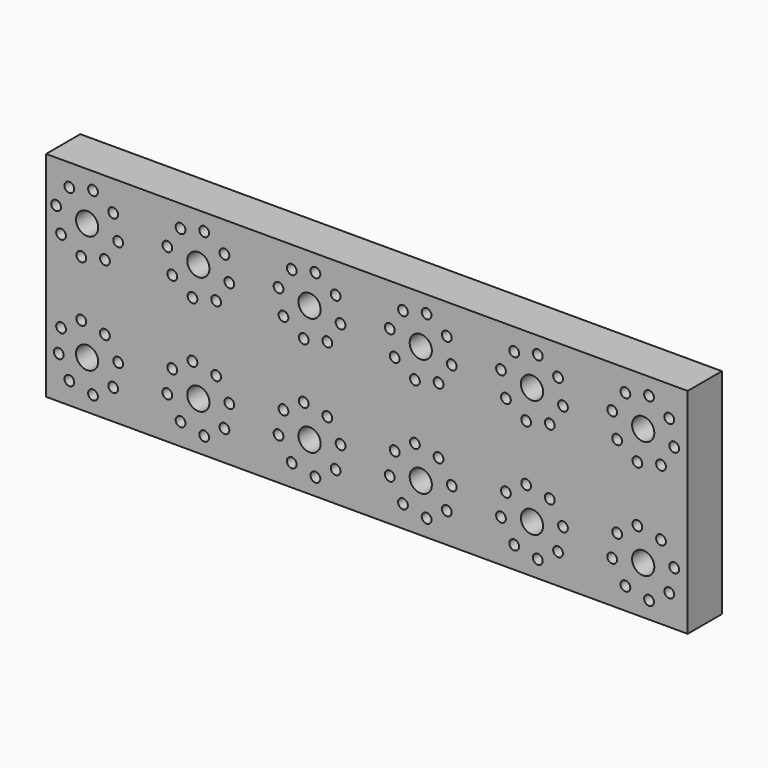
from build123d import *

# Parameters (mm, degrees)
F0_W     = 190.5
F0_H     = 63.5
F0_R     = 1.449377
F0_R_2   = 3.297141
F1_DEPTH = 12.7


with BuildPart() as f1:
    # F0 (on Front) → F1 (new body)
    with BuildSketch(Plane.XZ):
        with Locations((9.943035, 15.414621)):
            Rectangle(F0_W, F0_H)
        with Locations((-78.403845, -9.841247)):
            Circle(F0_R, mode=Mode.SUBTRACT)
        with Locations((-71.382995, -11.310188)):
            Circle(F0_R, mode=Mode.SUBTRACT)
        with Locations((-38.362995, -11.310188)):
            Circle(F0_R, mode=Mode.SUBTRACT)
        with Locations((-45.383845, -9.841247)):
            Circle(F0_R, mode=Mode.SUBTRACT)
        with Locations((-65.379806, -7.384395)):
            Circle(F0_R, mode=Mode.SUBTRACT)
        with Locations((-81.538953, -3.77234)):
            Circle(F0_R, mode=Mode.SUBTRACT)
        with Locations((-73.120251, -2.100801)):
            Circle(F0_R_2, mode=Mode.SUBTRACT)
        with Locations((-49.309638, -3.838057)):
            Circle(F0_R, mode=Mode.SUBTRACT)
        with Locations((-40.100251, -2.100801)):
            Circle(F0_R_2, mode=Mode.SUBTRACT)
        with Locations((-5.342995, -11.310188)):
            Circle(F0_R, mode=Mode.SUBTRACT)
        with Locations((-12.363845, -9.841247)):
            Circle(F0_R, mode=Mode.SUBTRACT)
        with Locations((-32.359806, -7.384395)):
            Circle(F0_R, mode=Mode.SUBTRACT)
        with Locations((-16.289638, -3.838057)):
            Circle(F0_R, mode=Mode.SUBTRACT)
        with Locations((0.660194, -7.384395)):
            Circle(F0_R, mode=Mode.SUBTRACT)
        with Locations((-7.080251, -2.100801)):
            Circle(F0_R_2, mode=Mode.SUBTRACT)
        with Locations((-80.860697, 3.182793)):
            Circle(F0_R, mode=Mode.SUBTRACT)
        with Locations((-63.910865, -0.363545)):
            Circle(F0_R, mode=Mode.SUBTRACT)
        with Locations((-74.857508, 7.108585)):
            Circle(F0_R, mode=Mode.SUBTRACT)
        with Locations((-67.836657, 5.639644)):
            Circle(F0_R, mode=Mode.SUBTRACT)
        with Locations((-47.840697, 3.182793)):
            Circle(F0_R, mode=Mode.SUBTRACT)
        with Locations((-41.837508, 7.108585)):
            Circle(F0_R, mode=Mode.SUBTRACT)
        with Locations((-30.890865, -0.363545)):
            Circle(F0_R, mode=Mode.SUBTRACT)
        with Locations((-14.820697, 3.182793)):
            Circle(F0_R, mode=Mode.SUBTRACT)
        with Locations((-34.816657, 5.639644)):
            Circle(F0_R, mode=Mode.SUBTRACT)
        with Locations((2.129135, -0.363545)):
            Circle(F0_R, mode=Mode.SUBTRACT)
        with Locations((-8.817508, 7.108585)):
            Circle(F0_R, mode=Mode.SUBTRACT)
        with Locations((-1.796657, 5.639644)):
            Circle(F0_R, mode=Mode.SUBTRACT)
        with Locations((20.656155, -9.841247)):
            Circle(F0_R, mode=Mode.SUBTRACT)
        with Locations((27.677005, -11.310188)):
            Circle(F0_R, mode=Mode.SUBTRACT)
        with Locations((53.676155, -9.841247)):
            Circle(F0_R, mode=Mode.SUBTRACT)
        with Locations((33.680194, -7.384395)):
            Circle(F0_R, mode=Mode.SUBTRACT)
        with Locations((16.730362, -3.838057)):
            Circle(F0_R, mode=Mode.SUBTRACT)
        with Locations((25.939749, -2.100801)):
            Circle(F0_R_2, mode=Mode.SUBTRACT)
        with Locations((49.750362, -3.838057)):
            Circle(F0_R, mode=Mode.SUBTRACT)
        with Locations((60.697005, -11.310188)):
            Circle(F0_R, mode=Mode.SUBTRACT)
        with Locations((86.696155, -9.841247)):
            Circle(F0_R, mode=Mode.SUBTRACT)
        with Locations((93.717005, -11.310188)):
            Circle(F0_R, mode=Mode.SUBTRACT)
        with Locations((66.700194, -7.384395)):
            Circle(F0_R, mode=Mode.SUBTRACT)
        with Locations((58.959749, -2.100801)):
            Circle(F0_R_2, mode=Mode.SUBTRACT)
        with Locations((99.720194, -7.384395)):
            Circle(F0_R, mode=Mode.SUBTRACT)
        with Locations((82.770362, -3.838057)):
            Circle(F0_R, mode=Mode.SUBTRACT)
        with Locations((91.979749, -2.100801)):
            Circle(F0_R_2, mode=Mode.SUBTRACT)
        with Locations((18.199303, 3.182793)):
            Circle(F0_R, mode=Mode.SUBTRACT)
        with Locations((24.202492, 7.108585)):
            Circle(F0_R, mode=Mode.SUBTRACT)
        with Locations((31.223343, 5.639644)):
            Circle(F0_R, mode=Mode.SUBTRACT)
        with Locations((35.149135, -0.363545)):
            Circle(F0_R, mode=Mode.SUBTRACT)
        with Locations((51.219303, 3.182793)):
            Circle(F0_R, mode=Mode.SUBTRACT)
        with Locations((57.222492, 7.108585)):
            Circle(F0_R, mode=Mode.SUBTRACT)
        with Locations((68.169135, -0.363545)):
            Circle(F0_R, mode=Mode.SUBTRACT)
        with Locations((64.243343, 5.639644)):
            Circle(F0_R, mode=Mode.SUBTRACT)
        with Locations((84.239303, 3.182793)):
            Circle(F0_R, mode=Mode.SUBTRACT)
        with Locations((101.189135, -0.363545)):
            Circle(F0_R, mode=Mode.SUBTRACT)
        with Locations((90.242492, 7.108585)):
            Circle(F0_R, mode=Mode.SUBTRACT)
        with Locations((97.263343, 5.639644)):
            Circle(F0_R, mode=Mode.SUBTRACT)
        with Locations((-74.857508, 23.720656)):
            Circle(F0_R, mode=Mode.SUBTRACT)
        with Locations((-67.836657, 25.189597)):
            Circle(F0_R, mode=Mode.SUBTRACT)
        with Locations((-80.860697, 27.646448)):
            Circle(F0_R, mode=Mode.SUBTRACT)
        with Locations((-63.910865, 31.192786)):
            Circle(F0_R, mode=Mode.SUBTRACT)
        with Locations((-41.837508, 23.720656)):
            Circle(F0_R, mode=Mode.SUBTRACT)
        with Locations((-47.840697, 27.646448)):
            Circle(F0_R, mode=Mode.SUBTRACT)
        with Locations((-34.816657, 25.189597)):
            Circle(F0_R, mode=Mode.SUBTRACT)
        with Locations((-30.890865, 31.192786)):
            Circle(F0_R, mode=Mode.SUBTRACT)
        with Locations((-14.820697, 27.646448)):
            Circle(F0_R, mode=Mode.SUBTRACT)
        with Locations((-8.817508, 23.720656)):
            Circle(F0_R, mode=Mode.SUBTRACT)
        with Locations((-1.796657, 25.189597)):
            Circle(F0_R, mode=Mode.SUBTRACT)
        with Locations((2.129135, 31.192786)):
            Circle(F0_R, mode=Mode.SUBTRACT)
        with Locations((-82.329638, 34.667299)):
            Circle(F0_R, mode=Mode.SUBTRACT)
        with Locations((-73.120251, 32.930043)):
            Circle(F0_R_2, mode=Mode.SUBTRACT)
        with Locations((-65.379806, 38.213637)):
            Circle(F0_R, mode=Mode.SUBTRACT)
        with Locations((-40.100251, 32.930043)):
            Circle(F0_R_2, mode=Mode.SUBTRACT)
        with Locations((-49.309638, 34.667299)):
            Circle(F0_R, mode=Mode.SUBTRACT)
        with Locations((-78.403845, 40.670488)):
            Circle(F0_R, mode=Mode.SUBTRACT)
        with Locations((-71.382995, 42.139429)):
            Circle(F0_R, mode=Mode.SUBTRACT)
        with Locations((-45.383845, 40.670488)):
            Circle(F0_R, mode=Mode.SUBTRACT)
        with Locations((-38.362995, 42.139429)):
            Circle(F0_R, mode=Mode.SUBTRACT)
        with Locations((-16.289638, 34.667299)):
            Circle(F0_R, mode=Mode.SUBTRACT)
        with Locations((-32.359806, 38.213637)):
            Circle(F0_R, mode=Mode.SUBTRACT)
        with Locations((-7.080251, 32.930043)):
            Circle(F0_R_2, mode=Mode.SUBTRACT)
        with Locations((0.660194, 38.213637)):
            Circle(F0_R, mode=Mode.SUBTRACT)
        with Locations((-12.363845, 40.670488)):
            Circle(F0_R, mode=Mode.SUBTRACT)
        with Locations((-5.342995, 42.139429)):
            Circle(F0_R, mode=Mode.SUBTRACT)
        with Locations((24.202492, 23.720656)):
            Circle(F0_R, mode=Mode.SUBTRACT)
        with Locations((31.223343, 25.189597)):
            Circle(F0_R, mode=Mode.SUBTRACT)
        with Locations((18.199303, 27.646448)):
            Circle(F0_R, mode=Mode.SUBTRACT)
        with Locations((57.222492, 23.720656)):
            Circle(F0_R, mode=Mode.SUBTRACT)
        with Locations((35.149135, 31.192786)):
            Circle(F0_R, mode=Mode.SUBTRACT)
        with Locations((51.219303, 27.646448)):
            Circle(F0_R, mode=Mode.SUBTRACT)
        with Locations((64.243343, 25.189597)):
            Circle(F0_R, mode=Mode.SUBTRACT)
        with Locations((68.169135, 31.192786)):
            Circle(F0_R, mode=Mode.SUBTRACT)
        with Locations((90.242492, 23.720656)):
            Circle(F0_R, mode=Mode.SUBTRACT)
        with Locations((97.263343, 25.189597)):
            Circle(F0_R, mode=Mode.SUBTRACT)
        with Locations((84.239303, 27.646448)):
            Circle(F0_R, mode=Mode.SUBTRACT)
        with Locations((101.189135, 31.192786)):
            Circle(F0_R, mode=Mode.SUBTRACT)
        with Locations((16.730362, 34.667299)):
            Circle(F0_R, mode=Mode.SUBTRACT)
        with Locations((25.939749, 32.930043)):
            Circle(F0_R_2, mode=Mode.SUBTRACT)
        with Locations((33.680194, 38.213637)):
            Circle(F0_R, mode=Mode.SUBTRACT)
        with Locations((49.750362, 34.667299)):
            Circle(F0_R, mode=Mode.SUBTRACT)
        with Locations((20.656155, 40.670488)):
            Circle(F0_R, mode=Mode.SUBTRACT)
        with Locations((27.677005, 42.139429)):
            Circle(F0_R, mode=Mode.SUBTRACT)
        with Locations((53.676155, 40.670488)):
            Circle(F0_R, mode=Mode.SUBTRACT)
        with Locations((58.959749, 32.930043)):
            Circle(F0_R_2, mode=Mode.SUBTRACT)
        with Locations((66.700194, 38.213637)):
            Circle(F0_R, mode=Mode.SUBTRACT)
        with Locations((91.979749, 32.930043)):
            Circle(F0_R_2, mode=Mode.SUBTRACT)
        with Locations((82.770362, 34.667299)):
            Circle(F0_R, mode=Mode.SUBTRACT)
        with Locations((99.720194, 38.213637)):
            Circle(F0_R, mode=Mode.SUBTRACT)
        with Locations((60.697005, 42.139429)):
            Circle(F0_R, mode=Mode.SUBTRACT)
        with Locations((86.696155, 40.670488)):
            Circle(F0_R, mode=Mode.SUBTRACT)
        with Locations((93.717005, 42.139429)):
            Circle(F0_R, mode=Mode.SUBTRACT)
    extrude(amount=F1_DEPTH)


solid = f1.part
